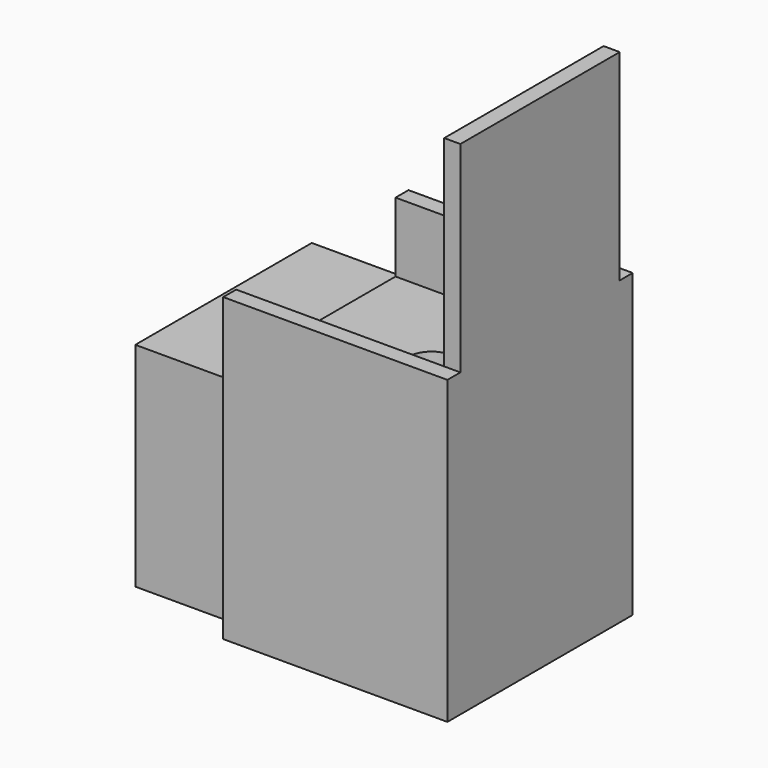
from build123d import *

# Parameters (mm, degrees)
F0_W        = 254
F0_H        = 254
F0_R        = 25.4
F1_DEPTH    = 220.472
F2_DEPTH    = 144.272
F3_R        = 25.4
F4_DEPTH    = 135.89
F5_W        = 241.9015839696
F5_H        = 233.4794849157
F5_W_2      = 228.9127036929
F5_H_2      = 217.6413685083
F6_DEPTH    = 101.6
F6_FACE_W   = 241.9015839696
F6_FACE_H   = 233.4794849157
F6_FACE_W_2 = 228.9127036929
F6_FACE_H_2 = 217.6413685083
F7_DEPTH    = 25.4
F8_W        = 228.178890729
F8_H        = 17.78
F8_W_2      = 17.693109271
F9_DEPTH    = 76.2
F8_H_2      = 218.44
F10_DEPTH   = 296.672


with BuildPart() as f1:
    # F0 (on Right) → F1 (new body)
    with BuildSketch(Plane.YZ):
        with Locations((0, 15.5562520722)):
            Rectangle(F0_W, F0_H)
        Circle(F0_R, mode=Mode.SUBTRACT)
        Circle(F0_R)
    extrude(amount=F1_DEPTH)

    # F0 (on Right) → F2 (cut)
    with BuildSketch(Plane.YZ):
        Circle(F0_R)
    extrude(amount=F2_DEPTH, mode=Mode.SUBTRACT)

    # F3 (on face) → F4 (cut)
    with BuildSketch(Plane.XY.offset(142.5562520722)):
        with Locations((101.4855039687, 0)):
            Circle(F3_R)
    extrude(amount=-F4_DEPTH, mode=Mode.SUBTRACT)

    # F5 (on face) → F6 (join)
    with BuildSketch(Plane.YZ):
        with Locations((0.4678927362, 20.2352032065)):
            Rectangle(F5_W, F5_H)
        with Locations((0.4346482456, 20.9778919816)):
            Rectangle(F5_W_2, F5_H_2, mode=Mode.SUBTRACT)
    extrude(amount=-F6_DEPTH)

    # F6_face (on face) + F0 (on Right) → F7 (join)
    with BuildSketch(Plane(origin=(-101.6, 0.7166497245, 14.6779207971), x_dir=(0, 1, 0), z_dir=(-1, 0, 0))):
        with Locations((-0.2487569883, -5.5572824094)):
            Rectangle(F6_FACE_W, F6_FACE_H)
        with Locations((-0.282001479, -6.2999711845)):
            Rectangle(F6_FACE_W_2, F6_FACE_H_2, mode=Mode.SUBTRACT)
    with BuildSketch(Plane.YZ):
        with Locations((0, 15.5562520722)):
            Rectangle(F0_W, F0_H)
        Circle(F0_R, mode=Mode.SUBTRACT)
    extrude(amount=F7_DEPTH, dir=(-1, 0, 0))

    # F8 (on face) → F9 (join)
    with BuildSketch(Plane.XY.offset(142.5562520722)):
        with Locations((88.6894453645, 118.11)):
            Rectangle(F8_W, F8_H)
        with Locations((211.6254453645, 118.11)):
            Rectangle(F8_W_2, F8_H)
        with Locations((88.6894453645, -118.11)):
            Rectangle(F8_W, F8_H)
        with Locations((211.6254453645, -118.11)):
            Rectangle(F8_W_2, F8_H)
    extrude(amount=F9_DEPTH)

    # F8 (on face) → F10 (join)
    with BuildSketch(Plane.XY.offset(142.5562520722)):
        with Locations((211.6254453645, 0)):
            Rectangle(F8_W_2, F8_H_2)
    extrude(amount=F10_DEPTH)


solid = f1.part
